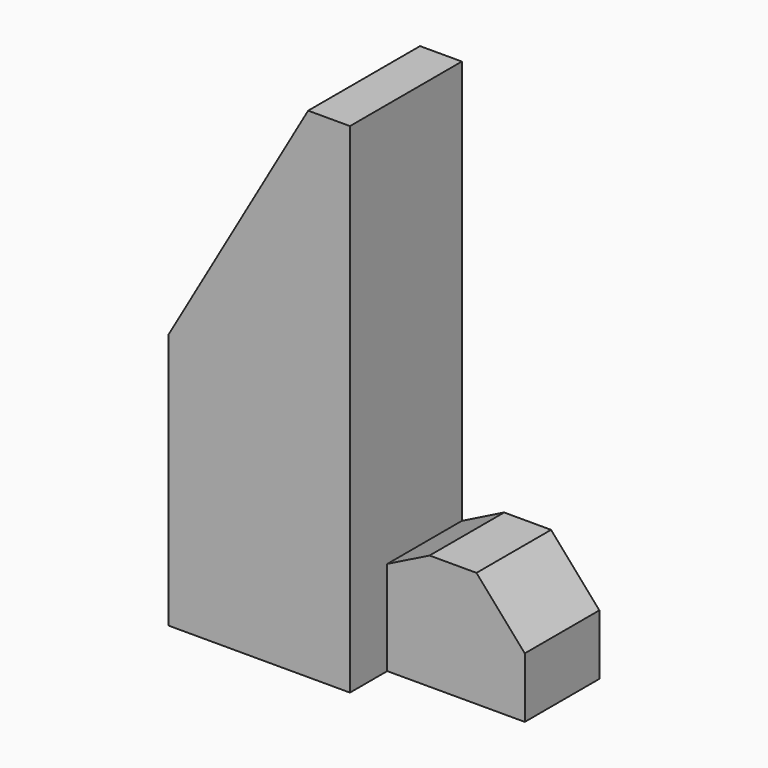
from build123d import *

# Parameters (mm, degrees)
F1_DEPTH = 25.4
F3_DEPTH = 38.1


with BuildPart() as f1:
    # F0 (on Front) → F1 (new body)
    with BuildSketch(Plane.XZ):
        Polygon((-175.058932, 19.05), (-175.058932, 0), (-124.258932, 0), (-124.258932, 16.446042), (-137.415759, 31.47589), (-150.207117, 31.47589), align=None)
    extrude(amount=F1_DEPTH)

    # F2 (on Front) → F3 (join)
    with BuildSketch(Plane.XZ):
        Polygon((-211.140918, 69.85), (-211.140918, 0), (-161.734765, 0), (-161.734765, 135.89), (-173.125679, 135.89), align=None)
    extrude(amount=F3_DEPTH)


solid = f1.part
